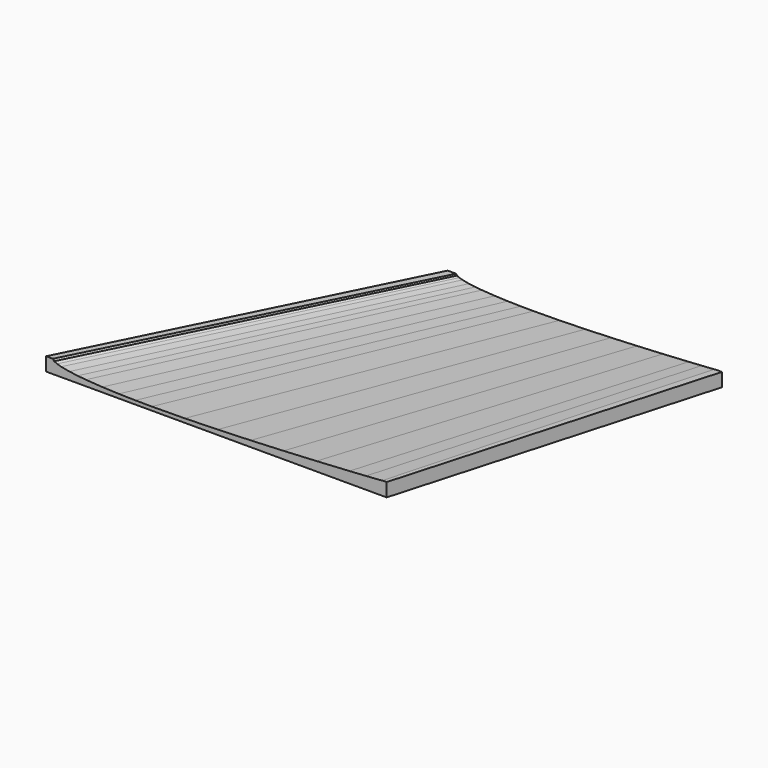
from build123d import *

# Parameters (mm, degrees)
F7_W      = 124.4431979082
F7_H      = 7
F9_W      = 74.3127836547
F9_H      = 7
F14_W     = 276.002407074
F14_H     = 30.9464875609
F15_DEPTH = 200


with BuildPart() as f5:
    # F2 (on Front) → F5 section 0
    with BuildSketch(Plane.XZ):
        Polygon((85.33424, -0.107453), (85.33424, 0.107451), (76.800816, 0.687353), (68.267393, 1.234847), (51.200543, 2.237735), (34.133696, 3.124644), (17.066846, 3.892161), (2e-06, 4.514701), (-17.066845, 4.949631), (-34.133695, 5.118482), (-42.667119, 5.067315), (-51.200542, 4.893345), (-59.733967, 4.559047), (-68.267391, 3.99279), (-72.534103, 3.581742), (-76.800815, 3.030836), (-81.067527, 2.229209), (-83.200883, 1.615195), (-84.614532, 0.89556), (-85.334239, -2e-06), (-84.677983, -0.911667), (-83.200883, -1.615199), (-81.067527, -2.22921), (-76.800815, -3.03084), (-72.534103, -3.581744), (-68.267391, -3.992792), (-59.733967, -4.559048), (-51.200542, -4.893346), (-42.667119, -5.067316), (-34.133695, -5.118483), (-17.066845, -4.949632), (2e-06, -4.514702), (17.066846, -3.892165), (34.133696, -3.124645), (51.200543, -2.237736), (68.267393, -1.234851), (76.800816, -0.687357), align=None)
    # F3 (on offset) → F5 section 1
    with BuildSketch(Plane.XZ.offset(-242)):
        Polygon((151.7721883423, -0.0841142291), (151.7721883423, 0.0588466904), (146.022191309, 0.4446183214), (140.27219327, 0.8088308689), (128.7721891468, 1.4759898717), (117.2721910575, 2.0659895201), (105.7721869344, 2.5765721341), (94.2721918621, 2.9907080691), (82.7721907559, 3.2800390551), (71.2721896496, 3.3923649172), (65.5221916107, 3.3583267467), (59.7721895491, 3.2425957602), (54.0221894988, 3.0202077499), (48.2721884429, 2.6435161153), (45.3971894234, 2.3700703464), (42.5221893982, 2.0035870455), (39.6471893731, 1.4703160053), (38.2096888577, 1.0618539367), (37.257142015, 0.5831232142), (36.7721883423, -0.012634775), (37.2143878926, -0.6191079446), (38.2096888577, -1.0871204698), (39.6471893731, -1.495583544), (42.5221893982, -2.0288545843), (45.3971894234, -2.3953378852), (48.2721884429, -2.6687806372), (54.0221894988, -3.0454752886), (59.7721895491, -3.2678592764), (65.5221916107, -3.3835942855), (71.2721896496, -3.417629439), (82.7721907559, -3.3053065939), (94.2721918621, -3.0159756079), (105.7721869344, -2.6018426898), (117.2721910575, -2.0912570589), (128.7721891468, -1.5012564048), (140.27219327, -0.8341014246), (146.022191309, -0.4698888771), align=None)
    loft()

    # F3 (on offset) → F8 section 0
    with BuildSketch(Plane.XZ.offset(-242)):
        Polygon((151.7721883423, -0.0841142291), (151.7721883423, 0.0588466904), (146.022191309, 0.4446183214), (140.27219327, 0.8088308689), (128.7721891468, 1.4759898717), (117.2721910575, 2.0659895201), (105.7721869344, 2.5765721341), (94.2721918621, 2.9907080691), (82.7721907559, 3.2800390551), (71.2721896496, 3.3923649172), (65.5221916107, 3.3583267467), (59.7721895491, 3.2425957602), (54.0221894988, 3.0202077499), (48.2721884429, 2.6435161153), (45.3971894234, 2.3700703464), (42.5221893982, 2.0035870455), (39.6471893731, 1.4703160053), (38.2096888577, 1.0618539367), (37.257142015, 0.5831232142), (36.7721883423, -0.012634775), (37.2143878926, -0.6191079446), (38.2096888577, -1.0871204698), (39.6471893731, -1.495583544), (42.5221893982, -2.0288545843), (45.3971894234, -2.3953378852), (48.2721884429, -2.6687806372), (54.0221894988, -3.0454752886), (59.7721895491, -3.2678592764), (65.5221916107, -3.3835942855), (71.2721896496, -3.417629439), (82.7721907559, -3.3053065939), (94.2721918621, -3.0159756079), (105.7721869344, -2.6018426898), (117.2721910575, -2.0912570589), (128.7721891468, -1.5012564048), (140.27219327, -0.8341014246), (146.022191309, -0.4698888771), align=None)
    # F4 (on offset) → F8 section 1
    with BuildSketch(Plane.XZ.offset(-315)):
        Polygon((172.8821369569, -0.0392518836), (172.8821369569, 0.0392481164), (169.6281849569, 0.2510951164), (166.3742329569, 0.4511011164), (159.8663269569, 0.8174671164), (153.3584209569, 1.1414641164), (146.8505149569, 1.4218491164), (140.3426109569, 1.6492701164), (133.8347059569, 1.8081551164), (127.3267999569, 1.8698371164), (124.0728479569, 1.8511541164), (120.8188949569, 1.7876011164), (117.5649419569, 1.6654781164), (114.3109889569, 1.4586201164), (112.6840129569, 1.3084581164), (111.0570359569, 1.1072051164), (109.4300599569, 0.8143601164), (108.6165719569, 0.5900561164), (108.0775209569, 0.3271631164), (107.8030829569, -2.8836e-06), (108.0533259569, -0.3330478836), (108.6165719569, -0.5900538836), (109.4300599569, -0.8143608836), (111.0570359569, -1.1072028836), (112.6840129569, -1.3084558836), (114.3109889569, -1.4586178836), (117.5649419569, -1.6654778836), (120.8188949569, -1.7875988836), (124.0728479569, -1.8511548836), (127.3267999569, -1.8698378836), (133.8347059569, -1.8081558836), (140.3426109569, -1.6492728836), (146.8505149569, -1.4218528836), (153.3584209569, -1.1414648836), (159.8663269569, -0.8174708836), (166.3742329569, -0.4511038836), (169.6281849569, -0.2510988836), align=None)
    loft()


with BuildPart() as f10:
    # F6 (on Front) → F10 section 0
    with BuildSketch(Plane.XZ):
        Polygon((61.0691448766, 0), (-88.8694618902, 0), (-88.8694618902, -7), (87.4868771153, -7), (87.4868771153, 0), align=None)
    # F7 (on offset) → F10 section 1
    with BuildSketch(Plane.XZ.offset(-242)):
        with Locations((94.229630797, -3.5)):
            Rectangle(F7_W, F7_H)
    loft()

    # F12: cut F5
    add(f5.part, mode=Mode.SUBTRACT)


with BuildPart() as f11:
    # F9 (on offset) → F11 section 0
    with BuildSketch(Plane.XZ.offset(-315)):
        with Locations((140.0638362015, -3.5)):
            Rectangle(F9_W, F9_H)
    # F7 (on offset) → F11 section 1
    with BuildSketch(Plane.XZ.offset(-242)):
        with Locations((94.229630797, -3.5)):
            Rectangle(F7_W, F7_H)
    loft()


with BuildPart() as f15_tool:
    # F14 (on offset) → F15 (new body)
    with BuildSketch(Plane.XZ.offset(-160)):
        with Locations((46.8171536922, -4.1513582692)):
            Rectangle(F14_W, F14_H)
    extrude(amount=-F15_DEPTH)


with BuildPart() as f10_1:
    add(f10.part)

    # F15: cut by f15_tool
    add(f15_tool.part, mode=Mode.SUBTRACT)


with BuildPart() as f11_1:
    add(f11.part)

    # F15: cut by f15_tool
    add(f15_tool.part, mode=Mode.SUBTRACT)


solid = f10_1.part
